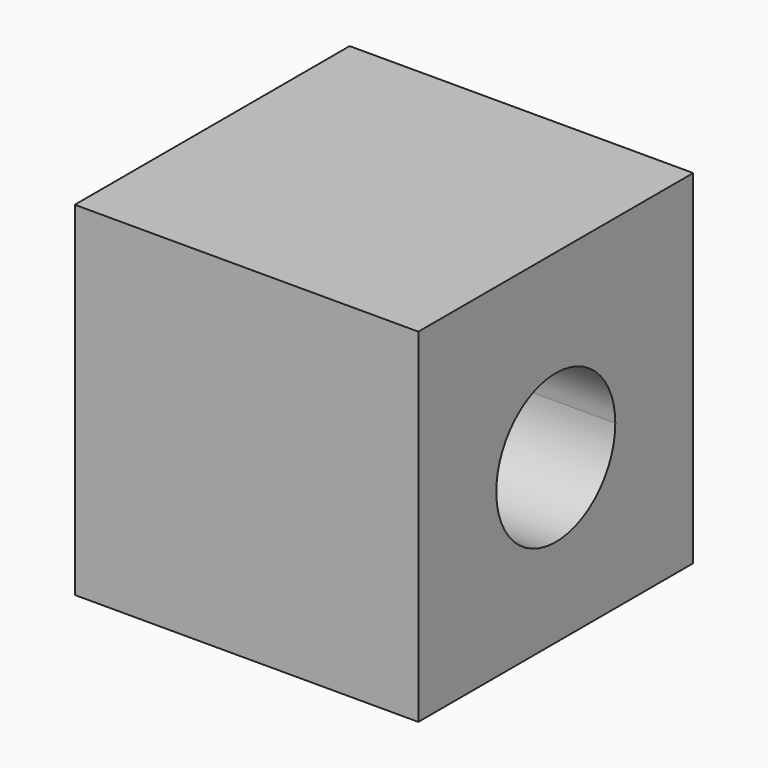
from build123d import *

# Parameters (mm, degrees)
F1_DEPTH = 50.8
F2_DEPTH = 12.7


with BuildPart() as f1:
    # F0 (on Right) → F1 (new body)
    with BuildSketch(Plane.YZ):
        with BuildLine():
            Line((50.8, 50.6884578901), (25.4, 50.6884578901))
            Line((25.4, 50.6884578901), (25.4, 34.9788552748))
            ThreePointArc((25.4, 34.9788552748), (33.1781743946, 31.7570297594), (36.399999693, 23.9788552748))
            ThreePointArc((36.399999693, 23.9788552748), (33.1781743946, 16.2006807903), (25.4, 12.9788552748))
            Line((25.4, 12.9788552748), (25.4, -0.1115421099))
            Line((25.4, -0.1115421099), (50.8, -0.1115421099))
            Line((50.8, -0.1115421099), (50.8, 50.6884578901))
        make_face()
        with BuildLine():
            Line((25.4, 50.6884578901), (0, 50.6884578901))
            Line((0, 50.6884578901), (0, -0.1115421099))
            Line((0, -0.1115421099), (25.4, -0.1115421099))
            Line((25.4, -0.1115421099), (25.4, 12.9788552748))
            ThreePointArc((25.4, 12.9788552748), (14.399999693, 23.9788552748), (25.4, 34.9788552748))
            Line((25.4, 34.9788552748), (25.4, 50.6884578901))
        make_face()
    extrude(amount=F1_DEPTH)


with BuildPart() as f2:
    # F0 (on Right) → F2 (new body)
    with BuildSketch(Plane.YZ):
        with BuildLine():
            ThreePointArc((36.399999693, 23.9788552748), (33.1781743946, 31.7570297594), (25.4, 34.9788552748))
            Line((25.4, 34.9788552748), (25.4, 12.9788552748))
            ThreePointArc((25.4, 12.9788552748), (33.1781743946, 16.2006807903), (36.399999693, 23.9788552748))
        make_face()
        with BuildLine():
            Line((25.4, 12.9788552748), (25.4, 34.9788552748))
            ThreePointArc((25.4, 34.9788552748), (14.399999693, 23.9788552748), (25.4, 12.9788552748))
        make_face()
    extrude(amount=F2_DEPTH)


solid = Compound([f1.part, f2.part])
